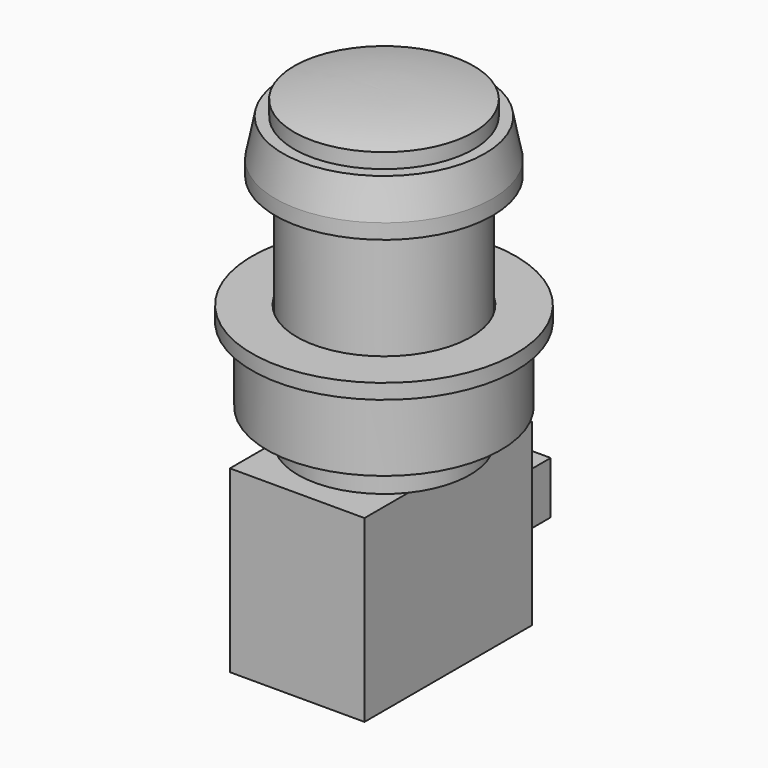
from build123d import *

# Parameters (mm, degrees)
F0_W      = 11.5
F0_H      = 38.5
F6_W      = 18
F6_H      = 24
F7_DEPTH  = 28
F9_W      = 7
F9_H      = 7
F10_DEPTH = 10


with BuildPart() as f1:
    # F0 (on Front) → F1 (revolve)
    with BuildSketch(Plane.XZ):
        with Locations((-5.75, 26.40557)):
            Rectangle(F0_W, F0_H)
    revolve(axis=Axis((0, 0, 26.40557), (0, 0, -1)))


with BuildPart() as f3:
    # F2 (on Front) → F3 (revolve)
    with BuildSketch(Plane.XZ):
        Polygon((13.508729, 45.639326), (11.508729, 45.639326), (11.508729, 38.639326), (14.508729, 38.639326), (14.508729, 40.639326), align=None)
    revolve(axis=Axis((0, 0, 41.623192), (0, 0, -1)))


with BuildPart() as f5:
    # F4 (on Front) → F5 (revolve)
    with BuildSketch(Plane.XZ):
        with BuildLine():
            Line((-12, 45.657206), (0, 45.657206))
            Line((0, 45.657206), (0, 48.657206))
            add(Edge.make_bspline(
                [(-12, 47.657206), (-8.023974, 48.433267), (-4.145653, 48.678216), (0, 48.657206)],
                knots=[0, 0, 0, 0, 12.041595, 12.041595, 12.041595, 12.041595], degree=3))
            Line((-12, 47.657206), (-12, 45.657206))
        make_face()
    revolve(axis=Axis((0, 0, 47.157206), (0, 0, -1)))


with BuildPart() as f7:
    # F6 (on Front) → F7 (new body)
    with BuildSketch(Plane.XZ):
        with Locations((0, -4.84443)):
            Rectangle(F6_W, F6_H)
    extrude(amount=F7_DEPTH)


with BuildPart() as f7_1:
    # F8: moved
    add(f7.part.moved(Location((0, 13.5, 0))))

    # F9 (on face) → F10 (join)
    with BuildSketch(Plane(origin=(0, 13.5, 0), x_dir=(-1, 0, 0), z_dir=(0, 1, 0))):
        with Locations((0, -6.5)):
            Rectangle(F9_W, F9_H)
    extrude(amount=F10_DEPTH)


with BuildPart() as f12:
    # F11 (on Right) → F12 (revolve)
    with BuildSketch(Plane.YZ):
        Polygon((17.640607, 23.432437), (11.640607, 23.432437), (11.640607, 11.432437), (15.640607, 11.432437), (15.640607, 21.432437), (17.640607, 21.432437), align=None)
    revolve(axis=Axis((0, 0, 22.250649), (0, 0, -1)))


solid = Compound([f1.part, f3.part, f5.part, f7_1.part, f12.part])
